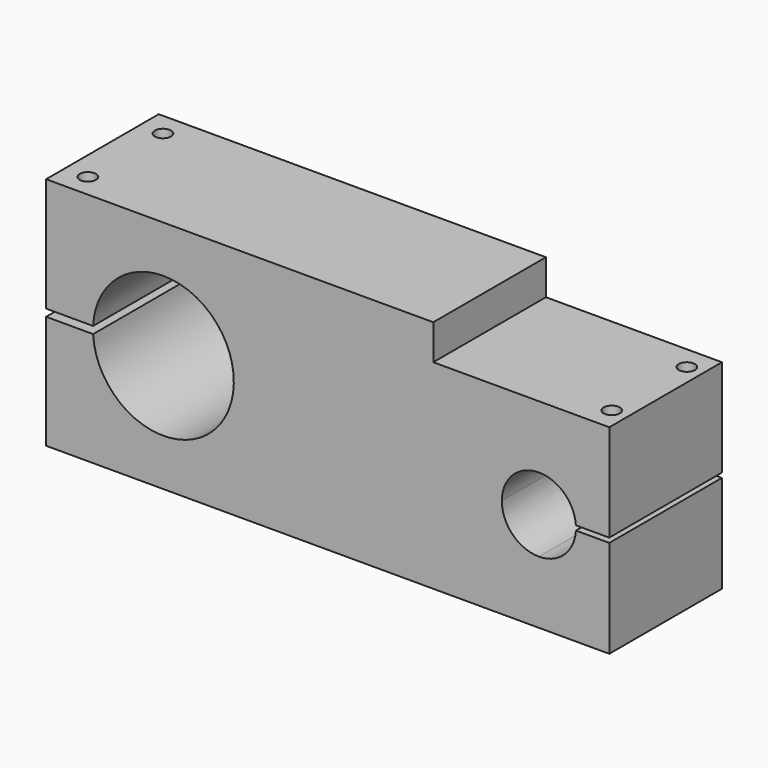
from build123d import *

# Parameters (mm, degrees)
F1_DEPTH       = 76.2
F3_D           = 8.8
F3_CBORE_D     = 14.25
F3_CBORE_DEPTH = 8


with BuildPart() as f1:
    # F0 (on Front) → F1 (new body)
    with BuildSketch(Plane.XZ):
        with BuildLine():
            Line((-103.5937780082, 73.3898709684), (-167.0937780082, 73.3898709684))
            Line((-167.0937780082, 73.3898709684), (-167.0937780082, 11.7464996874))
            Line((-167.0937780082, 11.7464996874), (-141.6485139789, 11.7464996874))
            ThreePointArc((-141.6485139789, 11.7464996874), (-129.8699311305, 37.4792489443), (-103.5937780082, 47.9898709684))
            Line((-103.5937780082, 47.9898709684), (-103.5937780082, 73.3898709684))
        make_face()
        with BuildLine():
            Line((42.4562219918, 73.3898709684), (-103.5937780082, 73.3898709684))
            Line((-103.5937780082, 73.3898709684), (-103.5937780082, 47.9898709684))
            ThreePointArc((-103.5937780082, 47.9898709684), (-65.4937780082, 9.8898709684), (-103.5937780082, -28.2101290316))
            Line((-103.5937780082, -28.2101290316), (-103.5937780082, -53.6101290316))
            Line((-103.5937780082, -53.6101290316), (99.6062219918, -53.6101290316))
            Line((99.6062219918, -53.6101290316), (99.6062219918, -19.7011290316))
            ThreePointArc((99.6062219918, -19.7011290316), (85.4174173205, -13.8239337029), (79.5402219918, 0.3648709684))
            ThreePointArc((79.5402219918, 0.3648709684), (85.4174173205, 14.5536756397), (99.6062219918, 20.4308709684))
            Line((99.6062219918, 20.4308709684), (99.6062219918, 54.3398709684))
            Line((99.6062219918, 54.3398709684), (42.4562219918, 54.3398709684))
            Line((42.4562219918, 54.3398709684), (42.4562219918, 73.3898709684))
        make_face()
        with BuildLine():
            Line((-103.5937780082, -53.6101290316), (-103.5937780082, -28.2101290316))
            ThreePointArc((-103.5937780082, -28.2101290316), (-129.8069683879, -17.7593360748), (-141.6396534975, 7.8597581014))
            Line((-141.6396534975, 7.8597581014), (-167.0937780082, 7.8597581014))
            Line((-167.0937780082, 7.8597581014), (-167.0937780082, -53.6101290316))
            Line((-167.0937780082, -53.6101290316), (-103.5937780082, -53.6101290316))
        make_face()
        with BuildLine():
            Line((137.7062219918, 54.3398709684), (99.6062219918, 54.3398709684))
            Line((99.6062219918, 54.3398709684), (99.6062219918, 20.4308709684))
            ThreePointArc((99.6062219918, 20.4308709684), (113.2999265767, 15.03207284), (119.6249929991, 1.7407936975))
            Line((119.6249929991, 1.7407936975), (137.7062219918, 1.7407936975))
            Line((137.7062219918, 1.7407936975), (137.7062219918, 54.3398709684))
        make_face()
        with BuildLine():
            Line((99.6062219918, -19.7011290316), (99.6062219918, -53.6101290316))
            Line((99.6062219918, -53.6101290316), (137.7062219918, -53.6101290316))
            Line((137.7062219918, -53.6101290316), (137.7062219918, -0.7702536532))
            Line((137.7062219918, -0.7702536532), (119.6400895189, -0.7702536532))
            ThreePointArc((119.6400895189, -0.7702536532), (113.3878573327, -14.2197402135), (99.6062219918, -19.7011290316))
        make_face()
    extrude(amount=F1_DEPTH)

    # F3 (through all)
    with Locations(Plane(origin=(0, 0, -53.6101290316), x_dir=(1, 0, 0), z_dir=(0, 0, -1))):
        with Locations((-154.6427160501, 63.5), (128.8689821959, 63.5), (128.8689821959, 12.7), (-154.6427160501, 12.7)):
            CounterBoreHole(F3_D / 2, F3_CBORE_D / 2, F3_CBORE_DEPTH)


solid = f1.part
